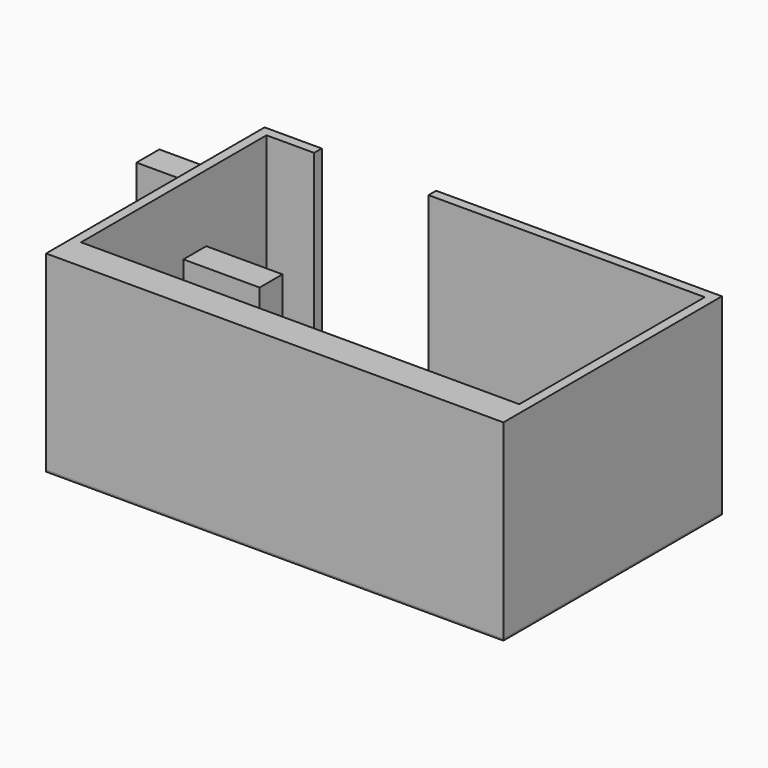
from build123d import *

# Parameters (mm, degrees)
F1_DEPTH  = 3048
F2_W      = 7315.2
F2_H      = 4368.8
F3_DEPTH  = 25.4
F4_W      = 1219.2
F4_H      = 609.6
F5_DEPTH  = 2133.6
F6_W      = 304.8
F6_H      = 762
F7_DEPTH  = 914.4
F8_W      = 1981.2
F8_H      = 609.6
F9_DEPTH  = 711.2
F10_W     = 914.4
F10_H     = 457.2
F11_DEPTH = 1320.8
F12_W     = 1219.2
F12_H     = 457.2
F13_DEPTH = 2133.6
F14_W     = 1066.8
F14_H     = 609.6
F15_DEPTH = 711.2
F16_W     = 304.8
F16_H     = 914.4
F17_DEPTH = 762
F19_DEPTH = 711.2


with BuildPart() as f1:
    # F0 (on Top) → F1 (new body)
    with BuildSketch(Plane.XY):
        Polygon((0, 254), (0, 3962.4), (762, 3962.4), (762, 4114.8), (-152.4, 4114.8), (-152.4, -254), (7162.8, -254), (7162.8, 4114.8), (2590.8, 4114.8), (2590.8, 3962.4), (7010.4, 3962.4), (7010.4, 254), align=None)
    extrude(amount=F1_DEPTH)


with BuildPart() as f3:
    # F2 (on face) → F3 (new body)
    with BuildSketch(Plane(origin=(0, 0, 0), x_dir=(1, 0, 0), z_dir=(0, 0, -1))):
        with Locations((3505.2, -1930.4)):
            Rectangle(F2_W, F2_H)
    extrude(amount=F3_DEPTH)


with BuildPart() as f5:
    # F4 (on face) → F5 (new body)
    with BuildSketch(Plane.XY):
        with Locations((609.6, 304.8)):
            Rectangle(F4_W, F4_H)
    extrude(amount=F5_DEPTH)


with BuildPart() as f7:
    # F6 (on face) → F7 (new body)
    with BuildSketch(Plane.XY):
        with Locations((1371.6, 381)):
            Rectangle(F6_W, F6_H)
    extrude(amount=F7_DEPTH)


with BuildPart() as f9:
    # F8 (on face) → F9 (new body)
    with BuildSketch(Plane.XY):
        with Locations((2514.6, 304.8)):
            Rectangle(F8_W, F8_H)
    extrude(amount=F9_DEPTH)


with BuildPart() as f11:
    # F10 (on face) → F11 (new body)
    with BuildSketch(Plane.XY):
        with Locations((-2422.0422506332, 5189.9824540843)):
            Rectangle(F10_W, F10_H)
    extrude(amount=F11_DEPTH)


with BuildPart() as f13:
    # F12 (on face) → F13 (new body)
    with BuildSketch(Plane.XY):
        with Locations((799.1747409105, 2292.7259836081)):
            Rectangle(F12_W, F12_H)
    extrude(amount=F13_DEPTH)


with BuildPart() as f15:
    # F14 (on face) → F15 (new body)
    with BuildSketch(Plane.XY):
        with Locations((4825.7355830946, 304.8)):
            Rectangle(F14_W, F14_H)
    extrude(amount=F15_DEPTH)


with BuildPart() as f17:
    # F16 (on face) → F17 (new body)
    with BuildSketch(Plane.XY):
        with Locations((6384.268346407, 2121.177315712)):
            Rectangle(F16_W, F16_H)
    extrude(amount=F17_DEPTH)


with BuildPart() as f19:
    # F18 (on face) → F19 (new body)
    with BuildSketch(Plane.XY):
        with BuildLine():
            add(Edge.make_bspline(
                [(4715.8998352051, 2143.3997154236), (4715.8998352051, 3067.2756161808), (3229.9998352051, 2605.3376658022), (1744.0998352051, 2143.3997154236), (3229.9998352051, 1681.461765045), (4715.8998352051, 1219.5238146663), (4715.8998352051, 2143.3997154236)],
                knots=[0, 0, 0, 2.0943951024, 2.0943951024, 4.1887902048, 4.1887902048, 6.2831853072, 6.2831853072, 6.2831853072], degree=2, weights=[1, 0.5, 1, 0.5, 1, 0.5, 1]))
        make_face()
    extrude(amount=F19_DEPTH)


solid = Compound([f1.part, f3.part, f5.part, f7.part, f9.part, f11.part, f13.part, f15.part, f17.part, f19.part])
